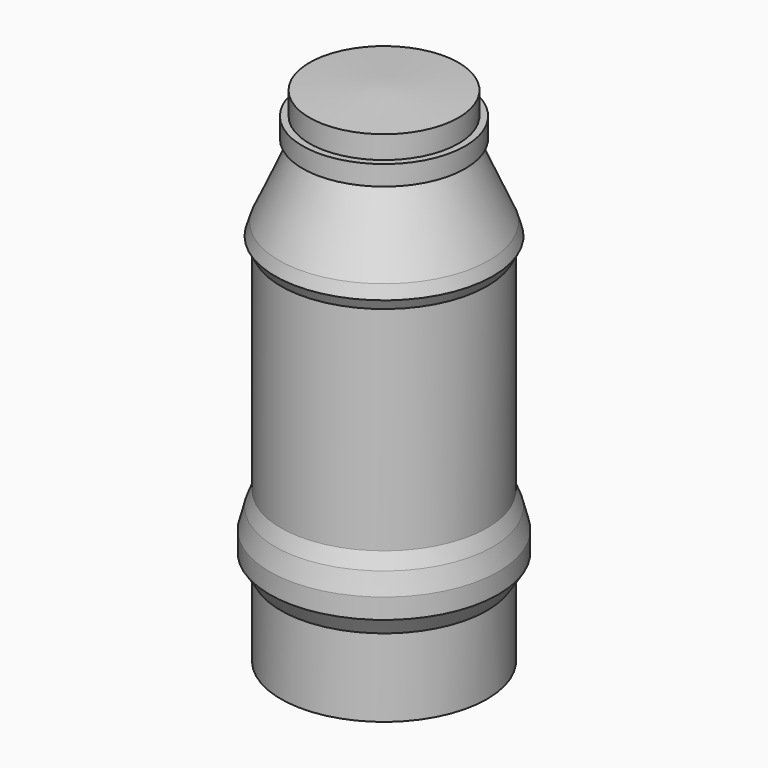
from build123d import *


with BuildPart() as f1:
    # F0 (on Front) → F1 (revolve)
    with BuildSketch(Plane.XZ):
        Polygon((54.195721, 33.801015), (54.195721, 47.20053), (10.298837, 49.509048), (10.298837, -208.012253), (31.136716, -208.012253), (50.449882, -248.671532), (71.024917, -248.671532), (71.024917, -202.785671), (77.624232, -192.36362), (77.624232, -180.504054), (74.447811, -168.644503), (71.024917, -160.019353), (71.024917, -34.656741), (74.447811, -28.381445), (72.165884, -20.965189), (53.054757, 22.106148), (58.189094, 22.106148), (58.189094, 33.801015), align=None)
    revolve(axis=Axis((10.298837, 0, -79.251602), (0, 0, 1)))


solid = f1.part
